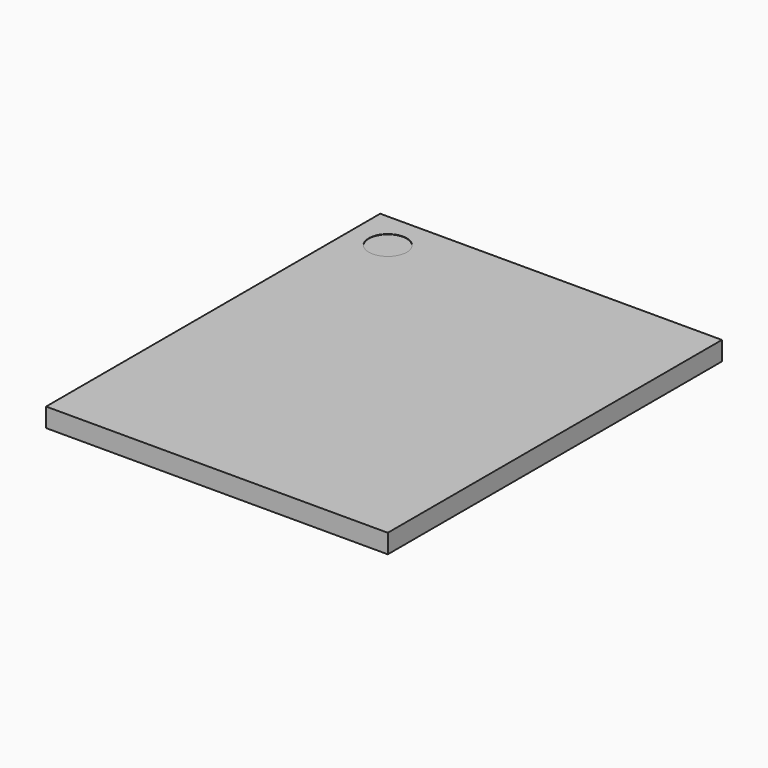
from build123d import *

# Parameters (mm, degrees)
CYLINDER029_R     = 0.5
CYLINDER029_DEPTH = 0.01
BOX074_W          = 9
BOX074_H          = 11
BOX074_DEPTH      = 0.5


with BuildPart() as cylinder029:
    # Cylinder029 → Cylinder029 (new body)
    with BuildSketch(Plane(origin=(1, 10, 0.49), x_dir=(1, 0, 0), z_dir=(0, 0, 1))):
        Circle(CYLINDER029_R)
    extrude(amount=CYLINDER029_DEPTH)


with BuildPart() as obj1:
    # Box074 → Box074 (new body)
    with BuildSketch(Plane.XY):
        with Locations((4.5, 5.5)):
            Rectangle(BOX074_W, BOX074_H)
    extrude(amount=BOX074_DEPTH)

    # Cut022: cut Cylinder029
    add(cylinder029.part, mode=Mode.SUBTRACT)


with BuildPart() as obj1_1:
    # Cut022 placement: moved
    add(obj1.part.moved(Location((-4.76, 9.63, 21.75))))


solid = obj1_1.part
